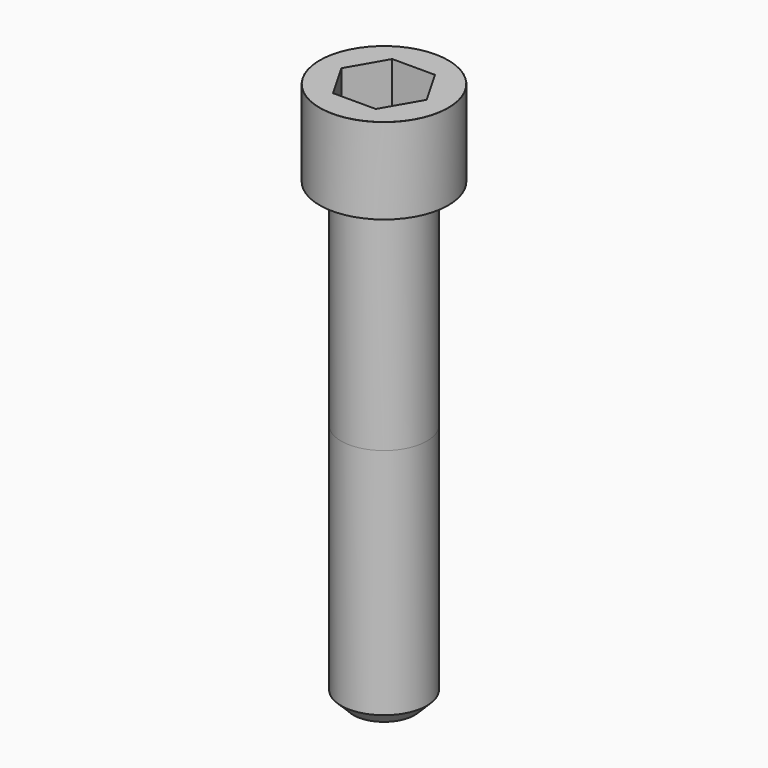
from build123d import *

# Parameters (mm, degrees)
POCKET_DEPTH = 12.07


with BuildPart() as part:
    # Sketch → Revolve (revolve)
    with BuildSketch(Plane.YZ):
        with BuildLine():
            Line((6.999, 0), (10.5, 0))
            Line((10.5, 0), (10.5, 13.97229))
            ThreePointArc((10.5, 13.97229), (10.491884, 13.991884), (10.47229, 14))
            Line((10.47229, 14), (0, 14))
            Line((0, -75), (0, 14))
            Line((5, -75), (0, -75))
            Line((7, -73), (5, -75))
            Line((7, -35), (7, -73))
            Line((6.999, 0), (7, -35))
        make_face()
    revolve(axis=Axis((0, 0, 0), (0, 0, 1)))

    # Sketch001 → Pocket (cut)
    with BuildSketch(Plane.XY.offset(14)):
        Polygon((6.968618, 0), (3.484309, 6.035), (-3.484309, 6.035), (-6.968618, 0), (-3.484309, -6.035), (3.484309, -6.035), align=None)
    extrude(amount=-POCKET_DEPTH, mode=Mode.SUBTRACT)


solid = part.part
